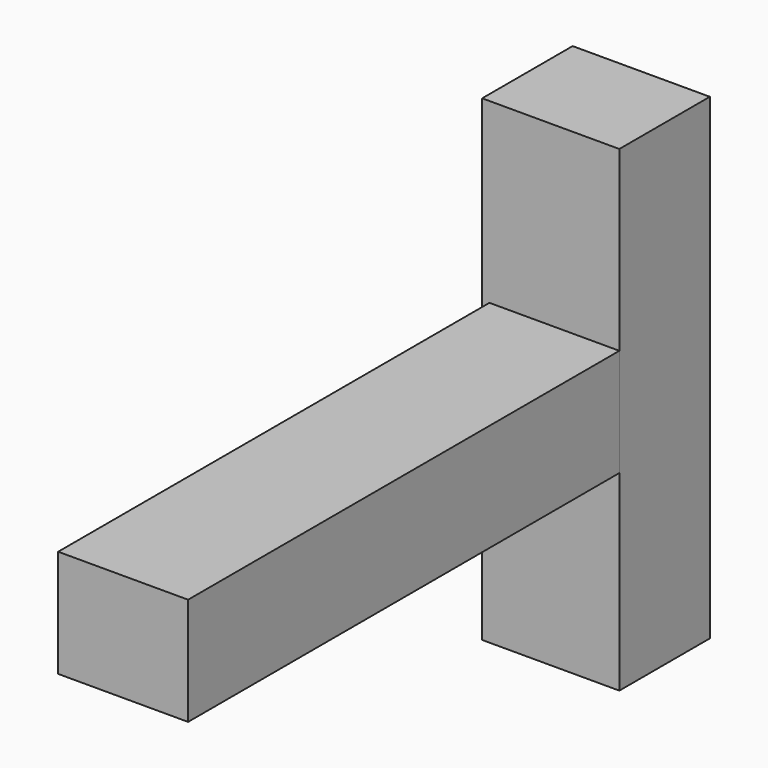
from build123d import *

# Parameters (mm, degrees)
F0_W      = 67.40779
F0_H      = 55.81269
F1_DEPTH  = 25.4
F1_FACE_W = 67.40779
F1_FACE_H = 55.81269
F2_DEPTH  = 254.254
F3_W      = 67.40779
F3_H      = 55.81269
F4_DEPTH  = 58.674


with BuildPart() as f1:
    # F0 (on Front) → F1 (new body)
    with BuildSketch(Plane.XZ):
        with Locations((-33.703895, 27.906345)):
            Rectangle(F0_W, F0_H)
    extrude(amount=F1_DEPTH)

    # F1_face (on face) → F2 (join)
    with BuildSketch(Plane(origin=(-33.703895, -25.4, 27.906345), x_dir=(1, 0, 0), z_dir=(0, -1, 0))):
        Rectangle(F1_FACE_W, F1_FACE_H)
    extrude(amount=F2_DEPTH)


with BuildPart() as f4:
    # F3 (on face) → F4 (new body)
    with BuildSketch(Plane(origin=(0, 0, 0), x_dir=(-1, 0, 0), z_dir=(0, 1, 0))):
        Polygon((71.172796, -99.397629), (71.172796, 147.98741), (0, 147.98741), (0, 55.81269), (67.40779, 55.81269), (67.40779, 0), (0, 0), (0, -99.397629), align=None)
        with Locations((33.703895, 27.906345)):
            Rectangle(F3_W, F3_H)
    extrude(amount=F4_DEPTH)


solid = Compound([f1.part, f4.part])
